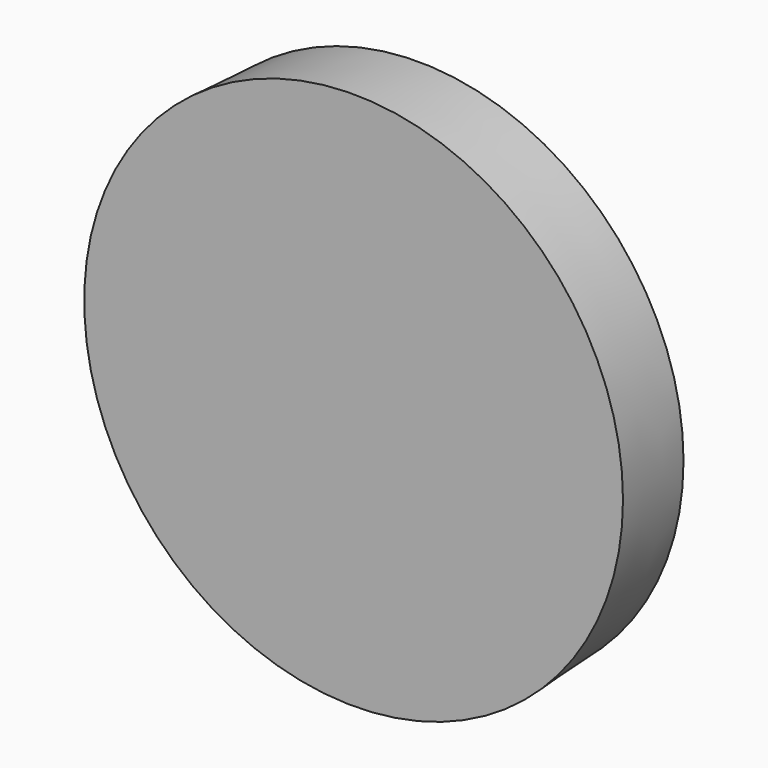
from build123d import *

# Parameters (mm, degrees)
F0_R     = 48.8170193474
F1_DEPTH = 14.9072799832
F1_TAPER = -3


with BuildPart() as f1:
    # F0 (on Front) → F1 (new body)
    with BuildSketch(Plane.XZ):
        with Locations((0, 22.9121148586)):
            Circle(F0_R)
    extrude(amount=F1_DEPTH, taper=F1_TAPER)


solid = f1.part
